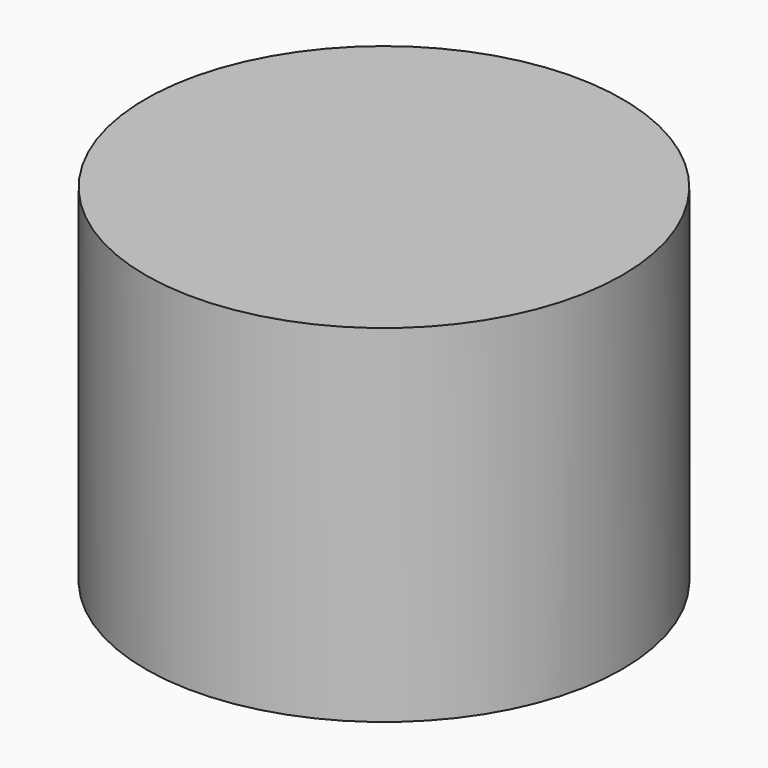
from build123d import *

# Parameters (mm, degrees)
CYLINDER_R     = 10.3124
CYLINDER_DEPTH = 15


with BuildPart() as part:
    # Cylinder → Cylinder (new body)
    with BuildSketch(Plane.XY.offset(-2.5)):
        Circle(CYLINDER_R)
    extrude(amount=CYLINDER_DEPTH)


solid = part.part
